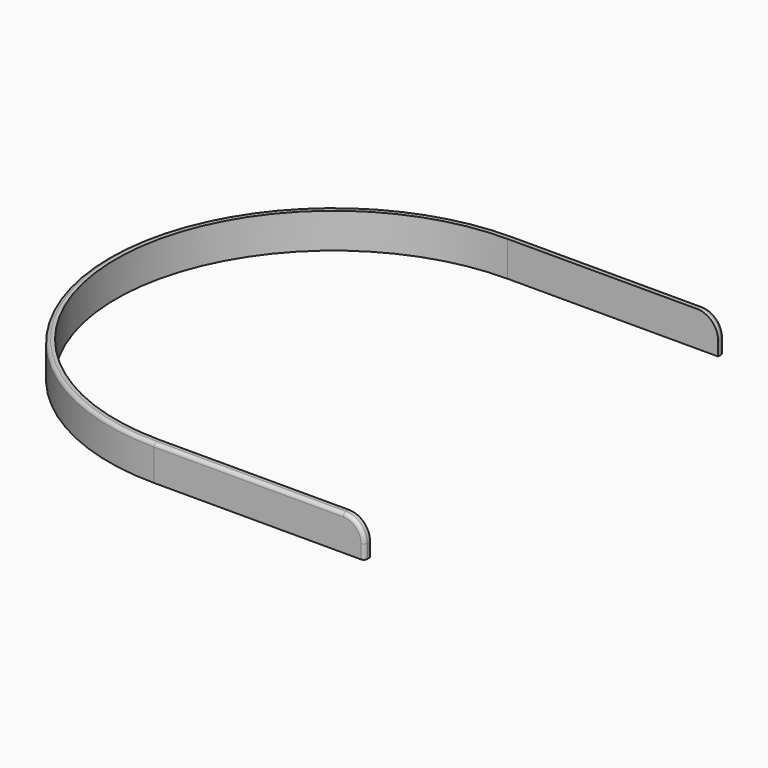
from build123d import *

# Parameters (mm, degrees)
PAD001_DEPTH = 10
FILLET001_R  = 6
FILLET002_R  = 1


with BuildPart() as part:
    # Sketch002 → Pad001 (new body)
    with BuildSketch(Plane.XY):
        with BuildLine():
            Line((60, 64), (0, 64))
            ThreePointArc((0, 64), (-63.999936, 0), (0, -64))
            Line((60, -64), (0, -64))
            Line((60, -62), (60, -64))
            Line((0, -62), (60, -62))
            ThreePointArc((0, 62), (-61.999985, 0), (0, -62))
            Line((0, 62), (60, 62))
            Line((60, 64), (60, 62))
        make_face()
    extrude(amount=PAD001_DEPTH)

    # Fillet001
    fillet001_edges = [part.edges().sort_by_distance(p)[0] for p in [
        (60, -63, 10),
        (60, 63, 10),
    ]]
    fillet(fillet001_edges, radius=FILLET001_R)

    # Fillet002
    fillet002_edges = [part.edges().sort_by_distance(p)[0] for p in [
        (27, 64, 10),
    ]]
    fillet(fillet002_edges, radius=FILLET002_R)


solid = part.part
